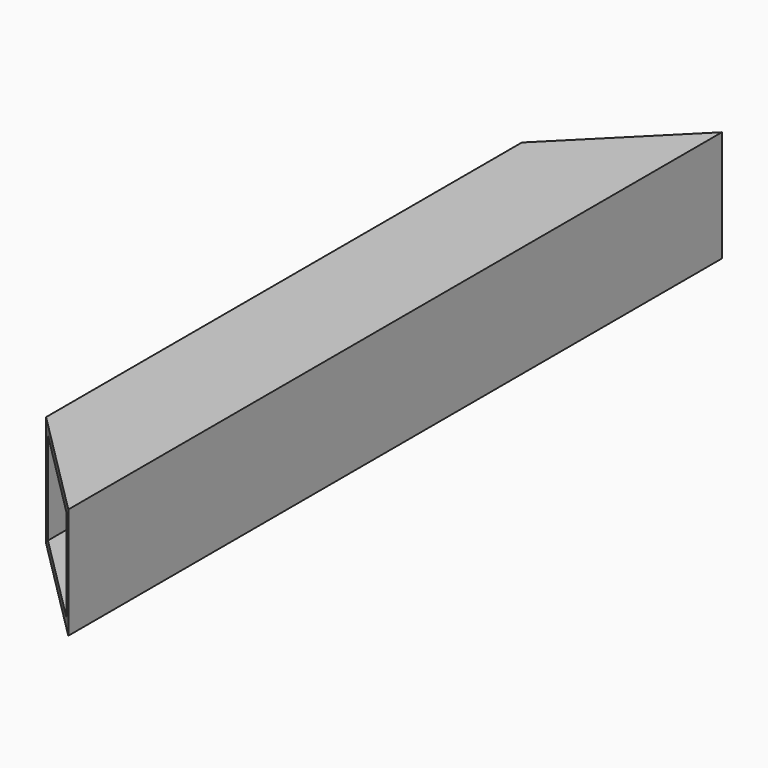
from build123d import *

# Parameters (mm, degrees)
F0_W     = 19.05
F0_H     = 19.05
F0_W_2   = 15.875
F0_H_2   = 15.875
F1_DEPTH = 140
F3_DEPTH = 9.526
F4_DEPTH = 9.526


with BuildPart() as f1:
    # F0 (on Front) → F1 (new body)
    with BuildSketch(Plane.XZ):
        Rectangle(F0_W, F0_H)
        Rectangle(F0_W_2, F0_H_2, mode=Mode.SUBTRACT)
    extrude(amount=F1_DEPTH)

    # F2 (on Top) → F3 (cut, through all)
    with BuildSketch(Plane.XY):
        Polygon((9.525, 0), (-9.525, 0), (-9.525, -19.05), align=None)
        Polygon((-9.525, -120.95), (-9.525, -140), (9.525, -140), align=None)
    extrude(amount=-F3_DEPTH, mode=Mode.SUBTRACT)

    # F2 (on Top) → F4 (cut, through all)
    with BuildSketch(Plane.XY):
        Polygon((9.525, 0), (-9.525, 0), (-9.525, -19.05), align=None)
        Polygon((-9.525, -120.95), (-9.525, -140), (9.525, -140), align=None)
    extrude(amount=F4_DEPTH, mode=Mode.SUBTRACT)


solid = f1.part
